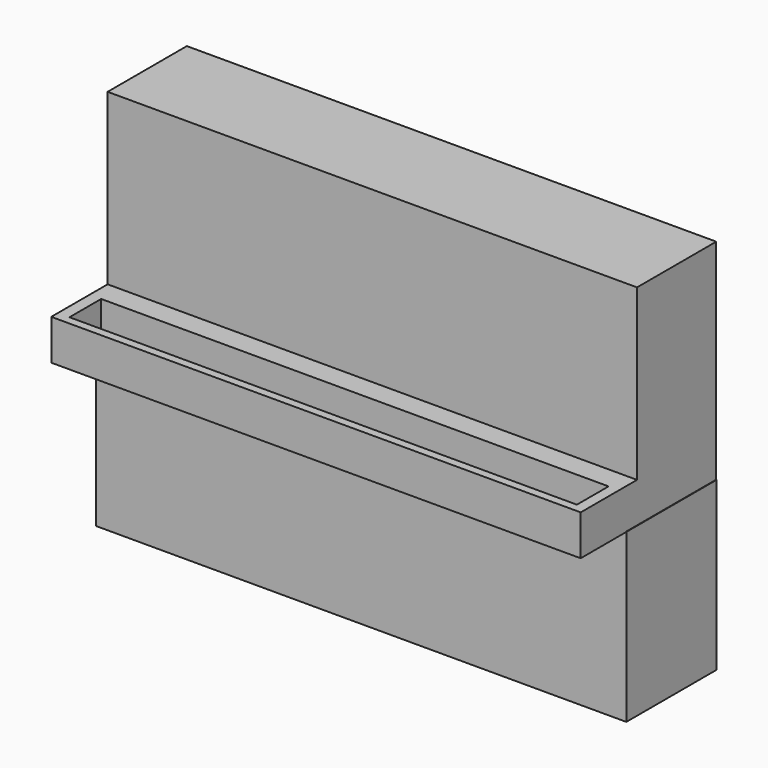
from build123d import *

# Parameters (mm, degrees)
F0_W     = 59.643604
F0_H     = 18.803239
F1_DEPTH = 12.7
F2_W     = 59.516147
F2_H     = 4.541714
F3_DEPTH = 19.05
F4_W     = 59.516147
F4_H     = 11.132205
F5_DEPTH = 19.05
F7_W     = 57.041779
F7_H     = 4.45303
F8_DEPTH = 12.7


with BuildPart() as f1:
    # F0 (on Front) → F1 (new body)
    with BuildSketch(Plane.XZ):
        with Locations((2.649862, 9.401619)):
            Rectangle(F0_W, F0_H)
    extrude(amount=F1_DEPTH)

    # F2 (on Front) → F3 (join)
    with BuildSketch(Plane.XZ):
        with Locations((2.659046, 21.029571)):
            Rectangle(F2_W, F2_H)
    extrude(amount=F3_DEPTH)

    # F4 (on face) → F5 (join)
    with BuildSketch(Plane.XY.offset(23.300428)):
        with Locations((2.659046, -5.566102)):
            Rectangle(F4_W, F4_H)
    extrude(amount=F5_DEPTH)

    # F7 (on face) → F8 (cut)
    with BuildSketch(Plane.XY.offset(23.300428)):
        with Locations((2.719969, -15.886329)):
            Rectangle(F7_W, F7_H)
    extrude(amount=-F8_DEPTH, mode=Mode.SUBTRACT)


solid = f1.part
